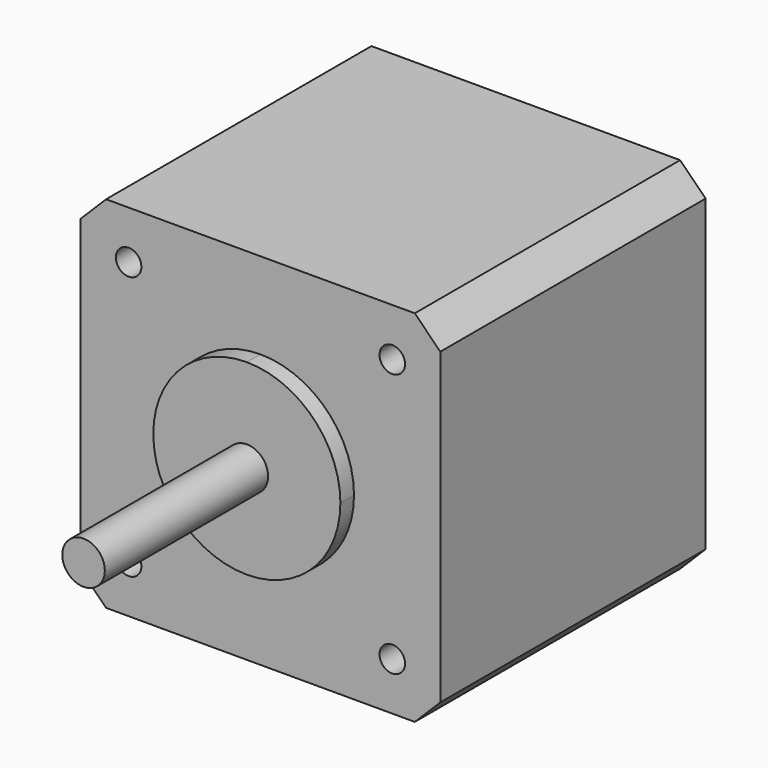
from build123d import *

# Parameters (mm, degrees)
F1_DEPTH = 39
F3_DEPTH = 2
F4_R     = 2.5
F5_DEPTH = 24
F6_R     = 1.5
F7_DEPTH = 5


with BuildPart() as f1:
    # F0 (on Front) → F1 (new body)
    with BuildSketch(Plane.XZ):
        Polygon((21.15, 18.15), (18.15, 21.15), (-18.15, 21.15), (-21.15, 18.15), (-21.15, -18.15), (-18.15, -21.15), (18.15, -21.15), (21.15, -18.15), align=None)
    extrude(amount=F1_DEPTH)

    # F2 (on face) → F3 (join)
    with BuildSketch(Plane.XZ.offset(39)):
        with BuildLine():
            ThreePointArc((-11, 0), (-7.7781745931, -7.7781745931), (0, -11))
            Line((0, -11), (0, 0))
            Line((0, 0), (-11, 0))
        make_face()
        with BuildLine():
            Line((0, 0), (0, 11))
            ThreePointArc((0, 11), (-7.7781745931, 7.7781745931), (-11, 0))
            Line((-11, 0), (0, 0))
        make_face()
        with BuildLine():
            Line((0, 0), (11, 0))
            ThreePointArc((11, 0), (7.7781745931, 7.7781745931), (0, 11))
            Line((0, 11), (0, 0))
        make_face()
        with BuildLine():
            ThreePointArc((0, -11), (7.7781745931, -7.7781745931), (11, 0))
            Line((11, 0), (0, 0))
            Line((0, 0), (0, -11))
        make_face()
    extrude(amount=F3_DEPTH)

    # F4 (on face) → F5 (join)
    with BuildSketch(Plane.XZ.offset(41)):
        Circle(F4_R)
        Circle(F4_R)
    extrude(amount=F5_DEPTH)

    # F6 (on face) → F7 (cut)
    with BuildSketch(Plane.XZ.offset(39)):
        with Locations((-15.5, 15.5)):
            Circle(F6_R)
        with BuildLine():
            ThreePointArc((17, 15.5), (15.5, 17), (14, 15.5))
            ThreePointArc((14, 15.5), (15.5, 14), (17, 15.5))
        make_face()
        with Locations((15.5, -15.5)):
            Circle(F6_R)
        with Locations((-15.5, -15.5)):
            Circle(F6_R)
    extrude(amount=-F7_DEPTH, mode=Mode.SUBTRACT)


solid = f1.part
